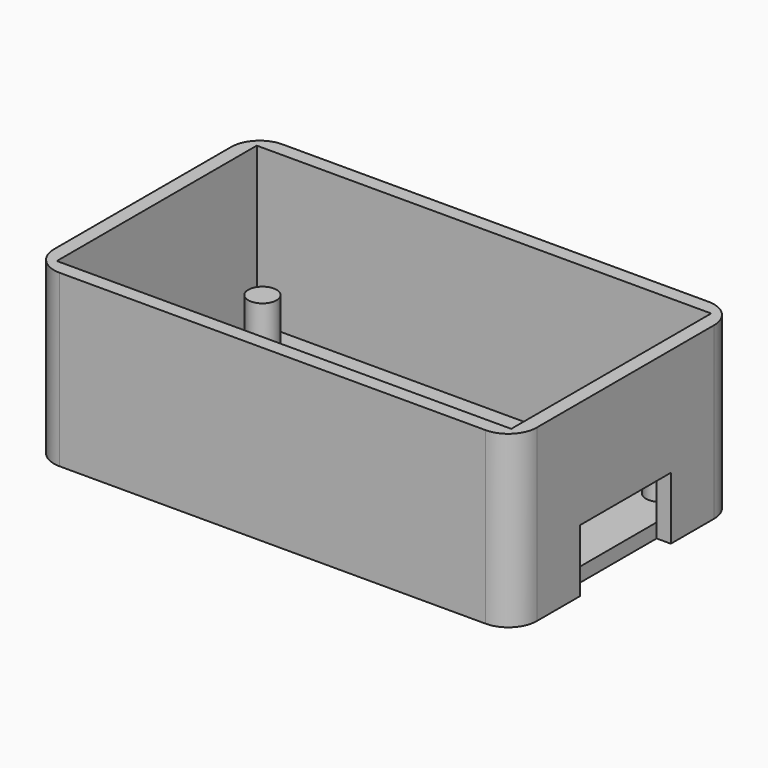
from build123d import *

# Parameters (mm, degrees)
F0_W     = 53.975
F0_H     = 31.115
F1_DEPTH = 19.05
F2_T     = -1.5875
F3_R     = 1.5875
F4_DEPTH = 5.08
F5_W     = 12.7
F5_H     = 7.62
F6_DEPTH = 1.5875
F7_R     = 3.175


with BuildPart() as f1:
    # F0 (on Top) → F1 (new body)
    with BuildSketch(Plane.XY):
        Rectangle(F0_W, F0_H)
    extrude(amount=F1_DEPTH)

    # F2
    f2_openings = [f1.faces().sort_by_distance(p)[0] for p in [
        (0, 0, 19.05),
    ]]
    offset(amount=F2_T, openings=f2_openings)

    # F3 (on face) → F4 (join)
    with BuildSketch(Plane.XY.offset(1.5875)):
        with Locations((22.225, 10.795)):
            Circle(F3_R)
        with Locations((22.225, -10.795)):
            Circle(F3_R)
        with Locations((-22.225, 10.795)):
            Circle(F3_R)
        with Locations((-22.225, -10.795)):
            Circle(F3_R)
    extrude(amount=F4_DEPTH)

    # F5 (on face) → F6 (cut)
    with BuildSketch(Plane.YZ.offset(26.9875)):
        with Locations((0, 3.175)):
            Rectangle(F5_W, F5_H)
    extrude(amount=-F6_DEPTH, mode=Mode.SUBTRACT)

    # F7
    f7_edges = [f1.edges().sort_by_distance(p)[0] for p in [
        (26.9875, -15.5575, 9.525),
        (-26.9875, -15.5575, 9.525),
        (-26.9875, 15.5575, 9.525),
        (26.9875, 15.5575, 9.525),
    ]]
    fillet(f7_edges, radius=F7_R)


solid = f1.part
